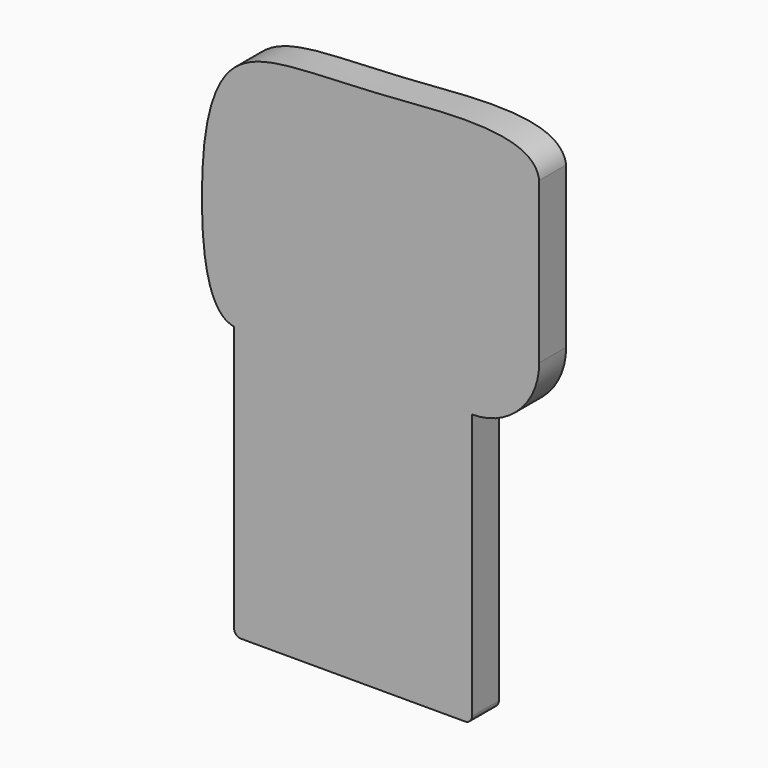
from build123d import *

# Parameters (mm, degrees)
F1_DEPTH = 25.4
F2_DEPTH = 205.74
F3_R     = 5.08


with BuildPart() as f1:
    # F0 (on Front) → F1 (new body)
    with BuildSketch(Plane.XZ):
        with BuildLine():
            Line((-137.8654783239, -94.8646968782), (-137.8654783239, 77.1448463202))
            add(Edge.make_bspline(
                [(-137.8654783239, -94.8646968782), (-158.2706578332, -91.8585594164), (-166.981581766, -7.7451420633), (-156.4983493038, 60.4911413287), (-137.8654783239, 77.1448463202)],
                knots=[0.5687155023, 0.5687155023, 0.5687155023, 0.5687155023, 0.6668544702, 0.7702510453, 0.7702510453, 0.7702510453, 0.7702510453], degree=3))
        make_face()
        with BuildLine():
            add(Edge.make_bspline(
                [(-137.8654783239, 77.1448463202), (-118.4092236957, 94.5344759251), (-46.2534441965, 88.953036709), (88.0846333213, 108.6653008956), (92.4056395888, 77.1448463202)],
                knots=[0.7702510453, 0.7702510453, 0.7702510453, 0.7702510453, 0.8782166988, 1, 1, 1, 1], degree=3))
            Line((-137.8654783239, 77.1448463202), (92.4056395888, 77.1448463202))
        make_face()
        with BuildLine():
            Line((92.4056395888, 77.1448463202), (-137.8654783239, 77.1448463202))
            Line((-137.8654783239, 77.1448463202), (-137.8654783239, -94.8646968782))
            Line((-137.8654783239, -94.8646968782), (-132.5711192259, -94.8646968782))
            add(Edge.make_bspline(
                [(92.4056395888, 70.2900443589), (88.177524096, 33.099393391), (0.8242697931, -63.9641826889), (-13.3528421954, -30.7865615999), (4.0839060304, -11.2757699491), (44.4742754931, 31.0623950536), (-38.227277915, 53.3707628282), (-31.9830279818, -8.9984561018), (-106.4943951176, -91.5314031198), (-132.5711192259, -94.8646968782)],
                knots=[0.0081423274, 0.0081423274, 0.0081423274, 0.0081423274, 0.1316241862, 0.1715089751, 0.2275439291, 0.2959483496, 0.3705997718, 0.4486594468, 0.560717639, 0.560717639, 0.560717639, 0.560717639], degree=3))
            Line((92.4056395888, 70.2900443589), (92.4056395888, 77.1448463202))
        make_face()
        with BuildLine():
            Line((92.4056395888, -44.0646968782), (92.4056395888, 70.2900443589))
            add(Edge.make_bspline(
                [(92.4056395888, 70.2900443589), (88.177524096, 33.099393391), (0.8242697931, -63.9641826889), (-13.3528421954, -30.7865615999), (4.0839060304, -11.2757699491), (44.4742754931, 31.0623950536), (-38.227277915, 53.3707628282), (-31.9830279818, -8.9984561018), (-106.4943951176, -91.5314031198), (-132.5711192259, -94.8646968782)],
                knots=[0.0081423274, 0.0081423274, 0.0081423274, 0.0081423274, 0.1316241862, 0.1715089751, 0.2275439291, 0.2959483496, 0.3705997718, 0.4486594468, 0.560717639, 0.560717639, 0.560717639, 0.560717639], degree=3))
            Line((-132.5711192259, -94.8646968782), (41.6056395888, -94.8646968782))
            ThreePointArc((41.6056395888, -94.8646968782), (77.5266640731, -79.9857213625), (92.4056395888, -44.0646968782))
        make_face()
        with BuildLine():
            Line((92.4056395888, 77.1448463202), (-137.8654783239, 77.1448463202))
            Line((-137.8654783239, 77.1448463202), (-137.8654783239, -94.8646968782))
            Line((-137.8654783239, -94.8646968782), (-132.5711192259, -94.8646968782))
            add(Edge.make_bspline(
                [(92.4056395888, 70.2900443589), (88.177524096, 33.099393391), (0.8242697931, -63.9641826889), (-13.3528421954, -30.7865615999), (4.0839060304, -11.2757699491), (44.4742754931, 31.0623950536), (-38.227277915, 53.3707628282), (-31.9830279818, -8.9984561018), (-106.4943951176, -91.5314031198), (-132.5711192259, -94.8646968782)],
                knots=[0.0081423274, 0.0081423274, 0.0081423274, 0.0081423274, 0.1316241862, 0.1715089751, 0.2275439291, 0.2959483496, 0.3705997718, 0.4486594468, 0.560717639, 0.560717639, 0.560717639, 0.560717639], degree=3))
            Line((92.4056395888, 70.2900443589), (92.4056395888, 77.1448463202))
        make_face()
    extrude(amount=F1_DEPTH)

    # F2 (add): a face of the model
    f2_faces = [f1.faces().sort_by_distance(p)[0] for p in [
        (-48.1299193675, -12.7, -94.8646968782),
    ]]
    extrude(f2_faces, amount=F2_DEPTH)

    # F3
    f3_edges = [f1.edges().sort_by_distance(p)[0] for p in [
        (41.60564, -12.7, -300.604697),
        (-137.865478, -12.7, -300.604697),
    ]]
    fillet(f3_edges, radius=F3_R)


solid = f1.part
